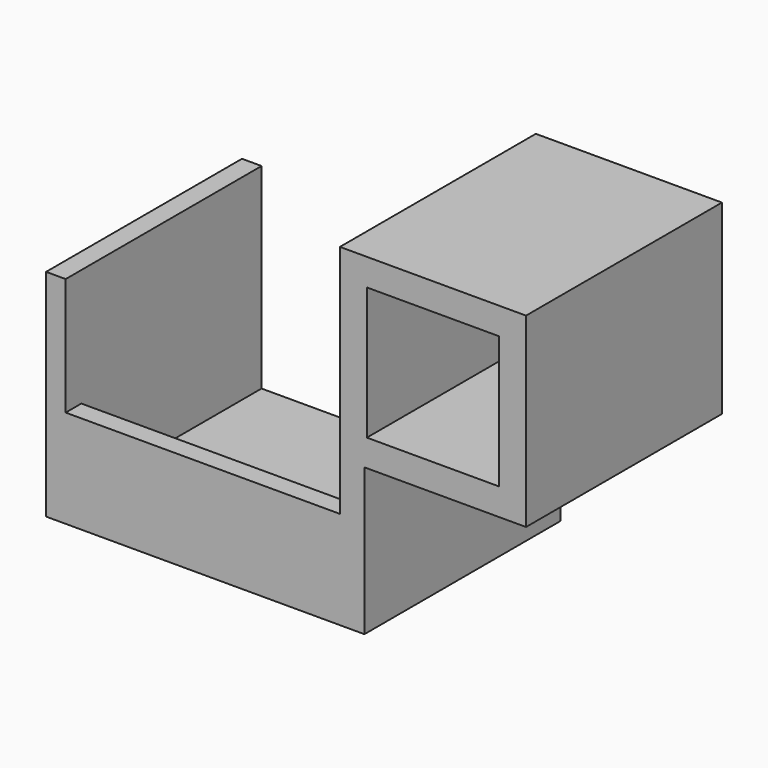
from build123d import *

# Parameters (mm, degrees)
F0_W     = 19
F0_H     = 19
F0_W_2   = 13.5
F0_H_2   = 13.5
F1_DEPTH = 12.5
F2_W     = 25
F2_H     = 34
F3_DEPTH = 2.5
F4_W     = 25
F4_H     = 2
F5_DEPTH = 30
F6_W     = 2
F6_H     = 25
F7_DEPTH = 20
F8_W     = 32.5
F8_H     = 10
F9_DEPTH = 2


with BuildPart() as f1:
    # F0 (on Front) → F1 (new body, symmetric)
    with BuildSketch(Plane.XZ):
        Rectangle(F0_W, F0_H)
        Rectangle(F0_W_2, F0_H_2, mode=Mode.SUBTRACT)
    extrude(amount=F1_DEPTH, both=True)

    # F2 (on face) → F3 (join)
    with BuildSketch(Plane(origin=(-9.5, 0, 0), x_dir=(0, -1, 0), z_dir=(-1, 0, 0))):
        with Locations((0, -7.5)):
            Rectangle(F2_W, F2_H)
    extrude(amount=-F3_DEPTH)

    # F4 (on face) → F5 (join)
    with BuildSketch(Plane(origin=(-9.5, 0, 0), x_dir=(0, -1, 0), z_dir=(-1, 0, 0))):
        with Locations((0, -23.5)):
            Rectangle(F4_W, F4_H)
    extrude(amount=F5_DEPTH)

    # F6 (on face) → F7 (join)
    with BuildSketch(Plane.XY.offset(-22.5)):
        with Locations((-38.5, 0)):
            Rectangle(F6_W, F6_H)
    extrude(amount=F7_DEPTH)

    # F8 (on face) → F9 (join)
    with BuildSketch(Plane.XZ.offset(12.5)):
        with Locations((-23.25, -19.5)):
            Rectangle(F8_W, F8_H)
    extrude(amount=-F9_DEPTH)


solid = f1.part
